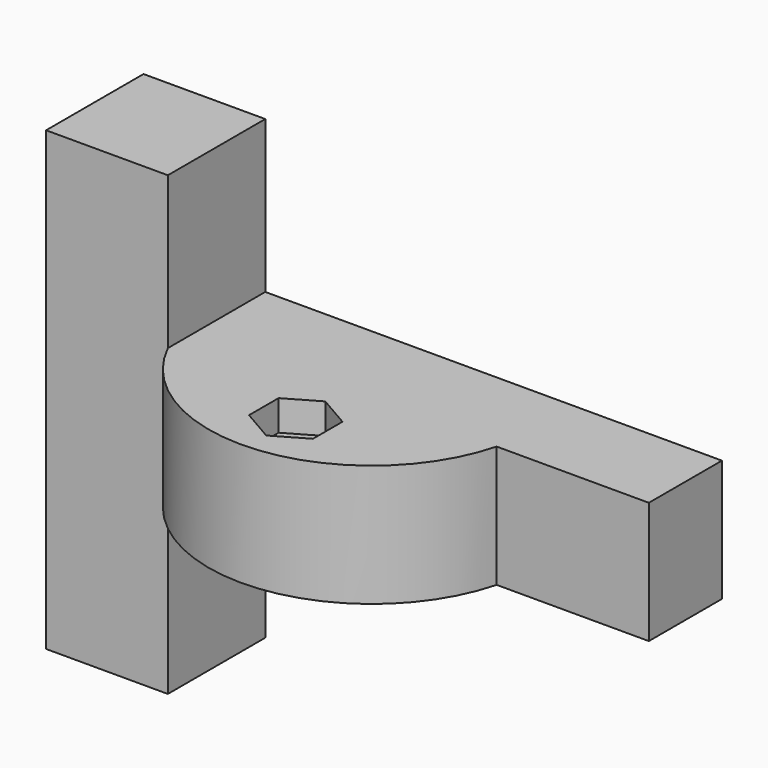
from build123d import *

# Parameters (mm, degrees)
F1_DEPTH = 20
F0_W     = 75
F0_H     = 20
F2_DEPTH = 15
F4_DEPTH = 10
F6_DEPTH = 5
F7_D     = 6.3
F7_DEPTH = 15
F7_TIP   = 1.8927109499


with BuildPart() as f1:
    # F0 (on Front) → F1 (new body)
    with BuildSketch(Plane.XZ):
        Polygon((-25, 35), (-45, 35), (-45, -40), (-25, -40), (-25, -10), (-25, 10), align=None)
    extrude(amount=F1_DEPTH)

    # F0 (on Front) → F2 (join)
    with BuildSketch(Plane.XZ):
        with Locations((12.5, 0)):
            Rectangle(F0_W, F0_H)
    extrude(amount=F2_DEPTH)

    # F3 (on Top) → F4 (join, symmetric)
    with BuildSketch(Plane.XY):
        with BuildLine():
            Line((-25, -15), (-25, -20))
            ThreePointArc((-25, -20), (1.7392618935, -34.8926189355), (25, -15))
            Line((25, -15), (0, -15))
            Line((0, -15), (-25, -15))
        make_face()
    extrude(amount=F4_DEPTH, both=True)

    # F5 (on face) → F6 (cut)
    with BuildSketch(Plane.XY.offset(10)):
        Polygon((5.2573132542, -21.9703298494), (0.009059209, -18.9362188631), (-5.2426850057, -21.9642846986), (-5.2461751751, -28.0264615203), (0.0020788701, -31.0605725067), (5.2538230847, -28.0325066712), align=None)
    extrude(amount=-F6_DEPTH, mode=Mode.SUBTRACT)

    # F7
    with Locations(Plane.XY.offset(10)):
        with Locations((0.0055690395, -24.9983956849)):
            Hole(F7_D / 2, depth=F7_DEPTH)
            with Locations((0, 0, -(F7_DEPTH + F7_TIP / 2))):  # 118° drill point
                Cone(0, F7_D / 2, F7_TIP, mode=Mode.SUBTRACT)


solid = f1.part
